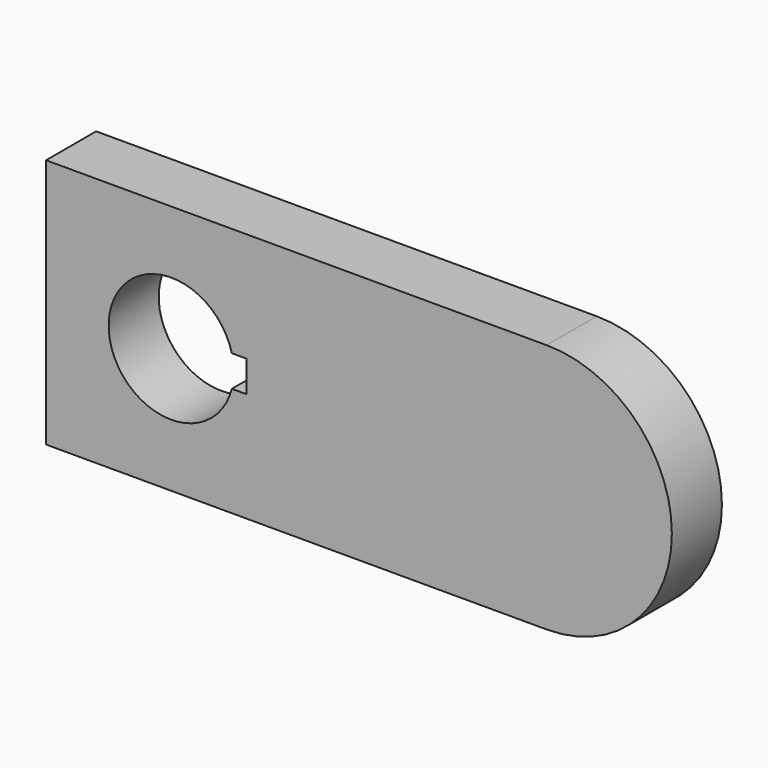
from build123d import *

# Parameters (mm, degrees)
F1_DEPTH = 10


with BuildPart() as f1:
    # F0 (on Front) → F1 (new body)
    with BuildSketch(Plane.XZ):
        with BuildLine():
            Line((36.355934, 20), (-43.644066, 20))
            Line((-43.644066, 20), (-43.644066, -20))
            Line((-43.644066, -20), (36.355934, -20))
            ThreePointArc((36.355934, -20), (56.355934, 0), (36.355934, 20))
        make_face()
        with BuildLine():
            ThreePointArc((-13.961608, -2.5), (-33.644066, 0), (-13.961608, 2.5))
            Line((-13.961608, 2.5), (-11.644066, 2.5))
            Line((-11.644066, 2.5), (-11.644066, -2.5))
            Line((-11.644066, -2.5), (-13.961608, -2.5))
        make_face(mode=Mode.SUBTRACT)
    extrude(amount=F1_DEPTH)


solid = f1.part
